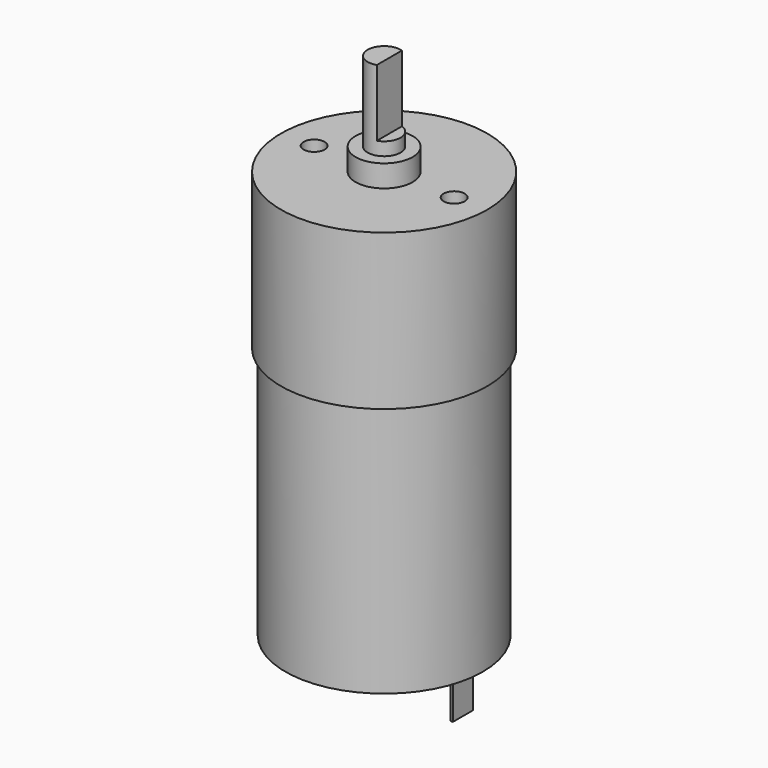
from build123d import *

# Parameters (mm, degrees)
SKETCH_R        = 12.47775
PAD_DEPTH       = 18.7833
SKETCH001_R     = 3.44805
PAD001_DEPTH    = 2.667
SKETCH002_R     = 1.9939
PAD002_DEPTH    = 9.652
SKETCH003_W     = 1.605508
SKETCH003_H     = 4.122735
POCKET_DEPTH    = 8.0645
SKETCH004_R     = 1.27
POCKET001_DEPTH = 6.35
SKETCH005_R     = 11.938
PAD003_DEPTH    = 30.5689
SKETCH006_R     = 4.191
PAD004_DEPTH    = 2.0447
SKETCH007_W     = 0.3175
SKETCH007_H     = 3.0099
PAD005_DEPTH    = 5.5118
SKETCH008_R     = 0.9779
PAD006_DEPTH    = 1.0541


with BuildPart() as part:
    # Sketch → Pad (new body)
    with BuildSketch(Plane.XY):
        Circle(SKETCH_R)
    extrude(amount=-PAD_DEPTH)

    # Sketch001 → Pad001 (new body)
    with BuildSketch(Plane.XY):
        Circle(SKETCH001_R)
    extrude(amount=PAD001_DEPTH)

    # Sketch002 → Pad002 (new body)
    with BuildSketch(Plane.XY.offset(2.667)):
        Circle(SKETCH002_R)
    extrude(amount=PAD002_DEPTH)

    # Sketch003 → Pocket (cut)
    with BuildSketch(Plane.XY.offset(12.319)):
        with Locations((1.437754, -0.02757)):
            Rectangle(SKETCH003_W, SKETCH003_H)
    extrude(amount=-POCKET_DEPTH, mode=Mode.SUBTRACT)

    # Sketch004 → Pocket001 (cut)
    with BuildSketch(Plane.XY):
        with Locations((8.46455, 0)):
            Circle(SKETCH004_R)
        with Locations((-8.46455, 0)):
            Circle(SKETCH004_R)
    extrude(amount=-POCKET001_DEPTH, mode=Mode.SUBTRACT)

    # Sketch005 → Pad003 (new body)
    with BuildSketch(Plane(origin=(0, 0, -18.7833), x_dir=(1, 0, 0), z_dir=(0, 0, -1))):
        Circle(SKETCH005_R)
    extrude(amount=PAD003_DEPTH)

    # Sketch006 → Pad004 (new body)
    with BuildSketch(Plane(origin=(0, 0, -49.3522), x_dir=(1, 0, 0), z_dir=(0, 0, -1))):
        Circle(SKETCH006_R)
    extrude(amount=PAD004_DEPTH)

    # Sketch007 → Pad005 (new body)
    with BuildSketch(Plane(origin=(0, 0, -49.3522), x_dir=(1, 0, 0), z_dir=(0, 0, -1))):
        with Locations((9.3599, 0)):
            Rectangle(SKETCH007_W, SKETCH007_H)
        with Locations((-7.9629, 0.00127)):
            Rectangle(SKETCH007_W, SKETCH007_H)
    extrude(amount=PAD005_DEPTH)

    # Sketch008 → Pad006 (new body)
    with BuildSketch(Plane(origin=(0, 0, -51.3969), x_dir=(1, 0, 0), z_dir=(0, 0, -1))):
        Circle(SKETCH008_R)
    extrude(amount=PAD006_DEPTH)


solid = part.part
